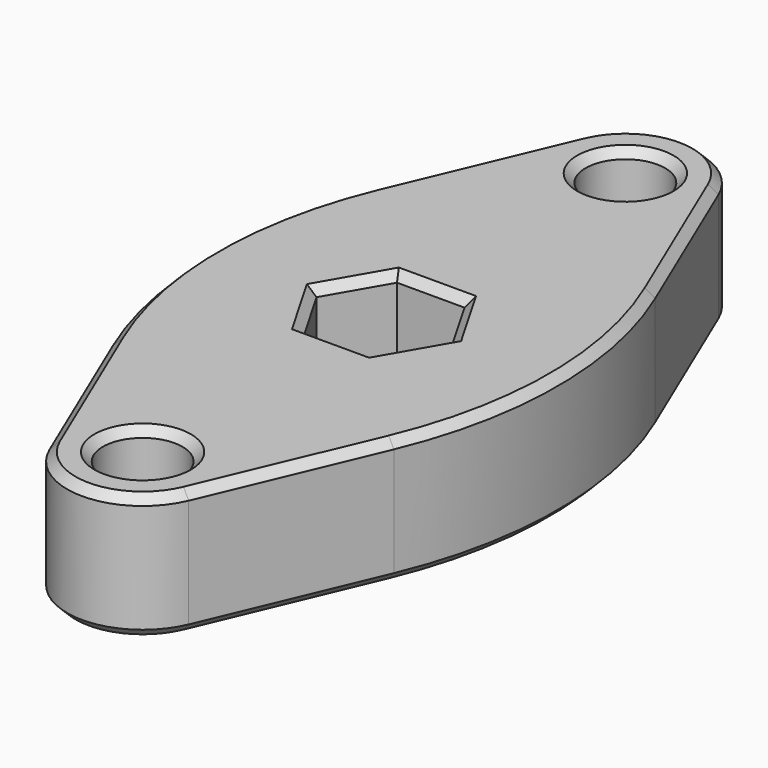
from build123d import *

# Parameters (mm, degrees)
F0_R     = 4.75
F1_DEPTH = 7.5
F2_R     = 50
F3_SIZE  = 1
F5_DEPTH = 25
F6_SIZE  = 1


with BuildPart() as f1:
    # F0 (on Top) → F1 (new body, symmetric)
    with BuildSketch(Plane.XY):
        with BuildLine():
            Line((25, 0), (8.288939, 39.506208))
            ThreePointArc((8.288939, 39.506208), (0, 45), (-8.288939, 39.506208))
            Line((-8.288939, 39.506208), (-25, 0))
            Line((-25, 0), (-8.288939, -39.506208))
            ThreePointArc((-8.288939, -39.506208), (0, -45), (8.288939, -39.506208))
            Line((8.288939, -39.506208), (25, 0))
        make_face()
        with Locations((0, -36)):
            Circle(F0_R, mode=Mode.SUBTRACT)
        with Locations((0, 36)):
            Circle(F0_R, mode=Mode.SUBTRACT)
    extrude(amount=F1_DEPTH, both=True)

    # F2
    f2_edges = [f1.edges().sort_by_distance(p)[0] for p in [
        (-25, 0, 0),
        (25, 0, 0),
    ]]
    fillet(f2_edges, radius=F2_R)

    # F3
    f3_edges = [f1.edges().sort_by_distance(p)[0] for p in [
        (0, 45, 7.5),
        (0, 45, -7.5),
        (-12.524692, -29.492569, 7.5),
        (-12.524692, -29.492569, -7.5),
    ]]
    chamfer(f3_edges, length=F3_SIZE)

    # F4 (on face) → F5 (cut)
    with BuildSketch(Plane.XY.offset(7.5)):
        Polygon((-4.025, 6.971505), (-8.05, 0), (-4.025, -6.971505), (4.025, -6.971505), (8.05, 0), (4.025, 6.971505), align=None)
    extrude(amount=-F5_DEPTH, mode=Mode.SUBTRACT)

    # F6
    f6_edges = [f1.edges().sort_by_distance(p)[0] for p in [
        (-4.75, 36, 7.5),
        (-4.75, 36, -7.5),
        (-4.75, -36, 7.5),
        (-4.75, -36, -7.5),
        (0, -6.971505, 7.5),
        (-6.0375, -3.485752, 7.5),
        (-6.0375, 3.485752, 7.5),
        (0, 6.971505, 7.5),
        (6.0375, 3.485752, 7.5),
        (6.0375, -3.485752, 7.5),
        (0, -6.971505, -7.5),
        (6.0375, -3.485752, -7.5),
        (6.0375, 3.485752, -7.5),
        (0, 6.971505, -7.5),
        (-6.0375, 3.485752, -7.5),
    ]]
    chamfer(f6_edges, length=F6_SIZE)


solid = f1.part
